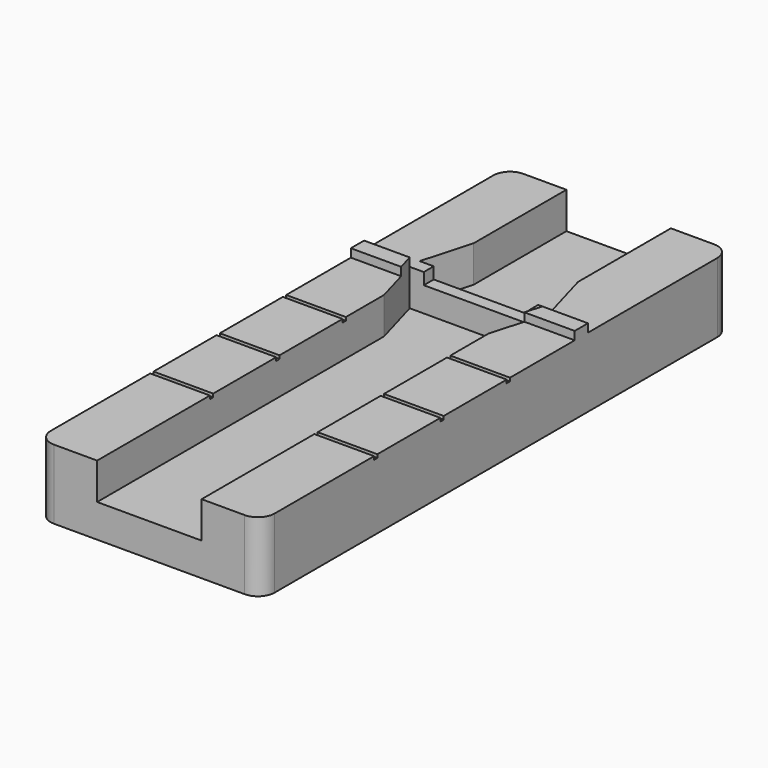
from build123d import *

# Parameters (mm, degrees)
F1_DEPTH  = 25
F2_W      = 6.3
F2_H      = 0.75
F3_DEPTH  = 1.5
F4_W      = 3.6
F4_H      = 1
F5_DEPTH  = 0.5
F6_W      = 13.5
F6_H      = 0.25
F7_DEPTH  = 0.2
F8_W      = 13.5
F8_H      = 14.625
F9_DEPTH  = 4.201
F10_R     = 1
F12_DEPTH = 2.701


with BuildPart() as f1:
    # F0 (on Front) → F1 (new body, symmetric)
    with BuildSketch(Plane.XZ):
        Polygon((-6.75, 4.2), (-6.75, 0), (6.75, 0), (6.75, 4.2), (3.15, 4.2), (3.15, 2), (-3.15, 2), (-3.15, 4.2), align=None)
    extrude(amount=F1_DEPTH, both=True)

    # F2 (on face) → F3 (join)
    with BuildSketch(Plane.XY.offset(2)):
        Rectangle(F2_W, F2_H)
    extrude(amount=F3_DEPTH)

    # F4 (on face) → F5 (join)
    with BuildSketch(Plane.XY.offset(4.2)):
        with Locations((4.95, -0.875)):
            Rectangle(F4_W, F4_H)
        with Locations((-4.95, -0.875)):
            Rectangle(F4_W, F4_H)
    extrude(amount=F5_DEPTH)

    # F6 (on face) → F7 (cut)
    with BuildSketch(Plane.XY.offset(4.2)):
        with Locations((0, -6.375)):
            Rectangle(F6_W, F6_H)
        with Locations((0, -11.375)):
            Rectangle(F6_W, F6_H)
        with Locations((0, -16.375)):
            Rectangle(F6_W, F6_H)
    extrude(amount=-F7_DEPTH, mode=Mode.SUBTRACT)

    # F8 (on face) → F9 (cut, through all)
    with BuildSketch(Plane.XY.offset(4.2)):
        with Locations((0, 17.6875)):
            Rectangle(F8_W, F8_H)
    extrude(amount=-F9_DEPTH, mode=Mode.SUBTRACT)

    # F10
    f10_edges = [f1.edges().sort_by_distance(p)[0] for p in [
        (-6.75, 10.375, 2.1),
        (6.75, 10.375, 2.1),
        (-6.75, -25, 2.1),
        (6.75, -25, 2.1),
    ]]
    fillet(f10_edges, radius=F10_R)

    # F11 (on face) → F12 (cut, through all)
    with BuildSketch(Plane.XY.offset(2)):
        Polygon((4, -0.375), (-4, -0.375), (-3.15, -3.375), (3.15, -3.375), align=None)
        Polygon((-3.15, 3.375), (-4, 0.375), (4, 0.375), (3.15, 3.375), align=None)
    extrude(amount=F12_DEPTH, mode=Mode.SUBTRACT)


solid = f1.part
